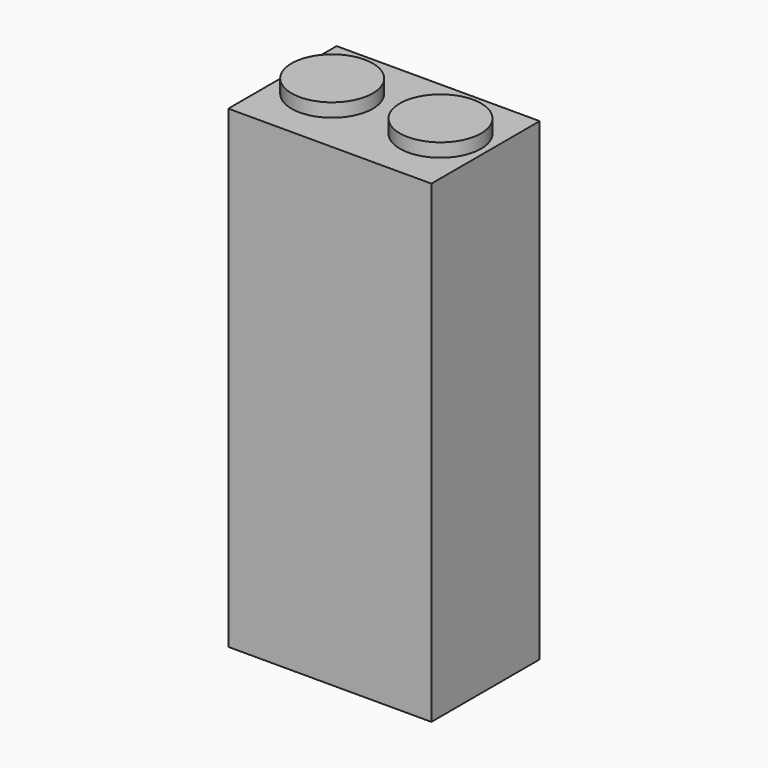
from build123d import *

# Parameters (mm, degrees)
F0_W     = 19.05
F0_H     = 44.45
F1_DEPTH = 12.7
F2_R     = 3.81
F3_DEPTH = 1.27


with BuildPart() as f1:
    # F0 (on Front) → F1 (new body)
    with BuildSketch(Plane.XZ):
        with Locations((-9.525, -22.225)):
            Rectangle(F0_W, F0_H)
    extrude(amount=F1_DEPTH)


with BuildPart() as f3:
    # F2 (on face) → F3 (new body)
    with BuildSketch(Plane.XY):
        with Locations((-14.582819, -6.104887)):
            Circle(F2_R)
        with Locations((-4.422819, -6.104887)):
            Circle(F2_R)
    extrude(amount=F3_DEPTH)


solid = Compound([f1.part, f3.part])
